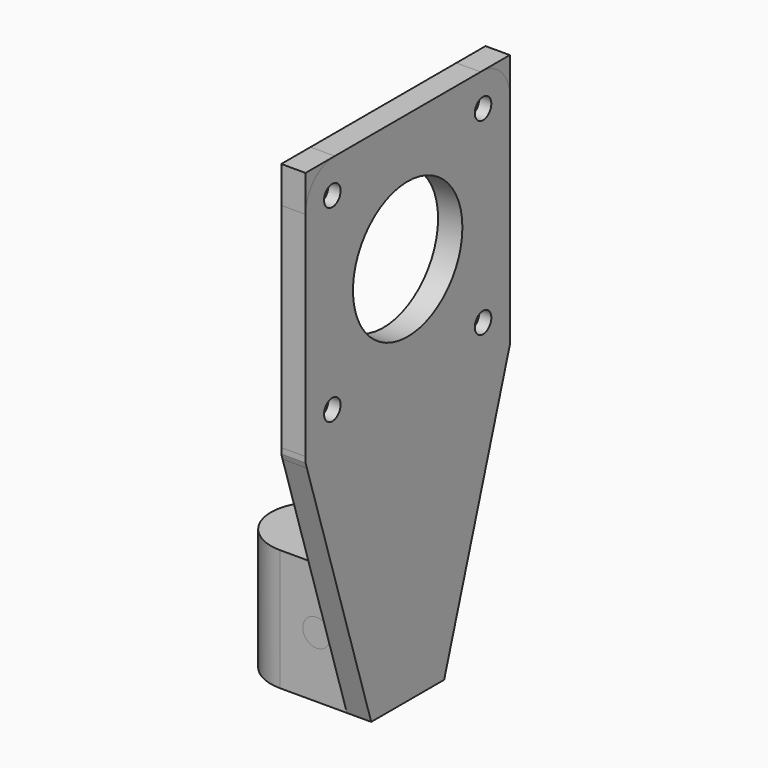
from build123d import *

# Parameters (mm, degrees)
SKETCH_R            = 2.5
PAD_DEPTH           = 20
SKETCH001_R         = 11.25
PAD001_DEPTH        = 4
HOLE_D              = 3.4
HOLE_DEPTH          = 25
HOLE_CBORE_D        = 6.1
HOLE_CBORE_DEPTH    = 2
SKETCH004_R         = 2.5
PAD002_DEPTH        = 2
SKETCH008_R         = 2.5
PAD003_DEPTH        = 20
SKETCH009_R         = 11.25
PAD004_DEPTH        = 4
HOLE002_D           = 3.4
HOLE002_DEPTH       = 25
HOLE002_CBORE_D     = 6.1
HOLE002_CBORE_DEPTH = 2
SKETCH011_R         = 2.5
PAD005_DEPTH        = 2
SKETCH012_W         = 10
SKETCH012_H         = 2
POCKET002_DEPTH     = 85.001
SKETCH013_R         = 2.25
HOLE003_DEPTH       = 25
HOLE003_TIPS_R      = 2.25
POCKET003_DEPTH     = 4
FILLET_R            = 6


with BuildPart() as arm0_skel:
    # Sketch → Pad (new body)
    with BuildSketch(Plane.XY):
        with BuildLine():
            ThreePointArc((0, 7.5), (-7.5, 0), (0, -7.5))
            Line((15, -7.5), (0, -7.5))
            Line((15, 7.5), (15, -7.5))
            Line((0, 7.5), (15, 7.5))
        make_face()
        Circle(SKETCH_R, mode=Mode.SUBTRACT)
    extrude(amount=PAD_DEPTH)

    # Sketch001 (on Face3 of Pad) → Pad001 (join)
    with BuildSketch(Plane.YZ.offset(15)):
        Polygon((-7.5, 0), (-21, 43), (-21, 85), (21, 85), (21, 43), (7.5, 0), align=None)
        with Locations((0, 64)):
            Circle(SKETCH001_R, mode=Mode.SUBTRACT)
    extrude(amount=-PAD001_DEPTH)

    # Hole
    with Locations(Plane(origin=(11, 0, 0), x_dir=(0, -1, 0), z_dir=(-1, 0, 0))):
        with Locations((15.5, 79.5), (-15.5, 79.5), (15.5, 48.5), (-15.5, 48.5)):
            CounterBoreHole(HOLE_D / 2, HOLE_CBORE_D / 2, HOLE_CBORE_DEPTH, depth=HOLE_DEPTH)

    # Sketch004 (on Face5 of Hole) → Pad002 (join)
    with BuildSketch(Plane.XY.offset(20)):
        Circle(SKETCH004_R)
    extrude(amount=-PAD002_DEPTH)


with BuildPart() as arm0s:
    # Sketch008 → Pad003 (new body)
    with BuildSketch(Plane.XY):
        with BuildLine():
            ThreePointArc((0, 7.5), (-7.5, 0), (0, -7.5))
            Line((15, -7.5), (0, -7.5))
            Line((15, 7.5), (15, -7.5))
            Line((0, 7.5), (15, 7.5))
        make_face()
        Circle(SKETCH008_R, mode=Mode.SUBTRACT)
    extrude(amount=PAD003_DEPTH)

    # Sketch009 (on Face3 of Pad003) → Pad004 (join)
    with BuildSketch(Plane.YZ.offset(15)):
        Polygon((-7.5, 0), (-21, 43), (-21, 85), (21, 85), (21, 43), (7.5, 0), align=None)
        with Locations((0, 64)):
            Circle(SKETCH009_R, mode=Mode.SUBTRACT)
    extrude(amount=-PAD004_DEPTH)

    # Hole002
    with Locations(Plane(origin=(11, 0, 0), x_dir=(0, -1, 0), z_dir=(-1, 0, 0))):
        with Locations((15.5, 79.5), (-15.5, 79.5), (15.5, 48.5), (-15.5, 48.5)):
            CounterBoreHole(HOLE002_D / 2, HOLE002_CBORE_D / 2, HOLE002_CBORE_DEPTH, depth=HOLE002_DEPTH)

    # Sketch011 (on Face5 of Hole002) → Pad005 (join)
    with BuildSketch(Plane.XY.offset(20)):
        Circle(SKETCH011_R)
    extrude(amount=-PAD005_DEPTH)

    # Sketch012 (on Face4 of Pad005) → Pocket002 (cut, through all)
    with BuildSketch(Plane(origin=(0, 0, 0), x_dir=(1, 0, 0), z_dir=(0, 0, -1))):
        with Locations((5, 0)):
            Rectangle(SKETCH012_W, SKETCH012_H)
    extrude(amount=-POCKET002_DEPTH, mode=Mode.SUBTRACT)

    # Sketch013 (on Face3 of Pocket002) → Hole003 (cut)
    with BuildSketch(Plane.XZ.offset(7.5)):
        with Locations((6, 10)):
            Circle(SKETCH013_R)
    extrude(amount=-HOLE003_DEPTH, mode=Mode.SUBTRACT)

    # Hole003 tips → Hole003 tip 1 section 0
    with BuildSketch(Plane.XZ.offset(-17.5), mode=Mode.PRIVATE) as hole003_tip_1_s0:
        with Locations((6, 10)):
            Circle(HOLE003_TIPS_R)
    loft([hole003_tip_1_s0.sketch, Vertex(6, 18.851936, 10)], mode=Mode.SUBTRACT)

    # Sketch014 (on Face2 of Hole003) → Pocket003 (cut)
    with BuildSketch(Plane(origin=(0, 7.5, 0), x_dir=(-1, 0, 0), z_dir=(0, 1, 0))):
        Polygon((-1.958548, 10), (-3.979274, 13.5), (-8.020726, 13.5), (-10.041452, 10), (-8.020726, 6.5), (-3.979274, 6.5), align=None)
    extrude(amount=-POCKET003_DEPTH, mode=Mode.SUBTRACT)

    # Fillet
    fillet_edges = [arm0s.edges().sort_by_distance(p)[0] for p in [
        (13, -21, 85),
        (13, 21, 85),
        (13, -21, 43),
        (13, 21, 43),
    ]]
    fillet(fillet_edges, radius=FILLET_R)


solid = Compound([arm0_skel.part, arm0s.part])
